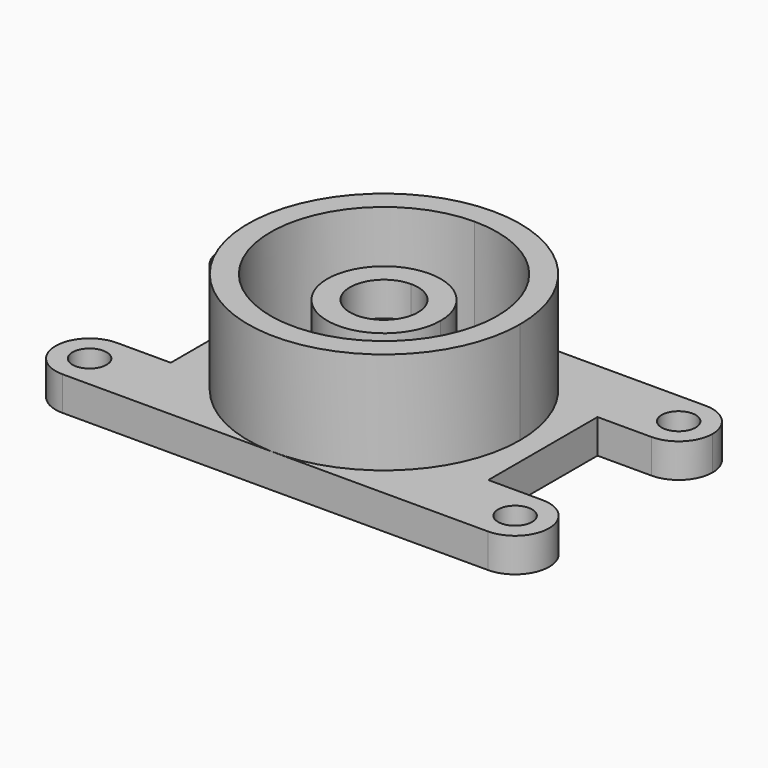
from build123d import *

# Parameters (mm, degrees)
F0_R     = 9.525
F1_DEPTH = 19.05
F2_DEPTH = 57.15
F3_DEPTH = 44.45
F4_DEPTH = 25.4


with BuildPart() as f1:
    # F0 (on Top) → F1 (new body)
    with BuildSketch(Plane.XY):
        with BuildLine():
            Line((-88.899997, 38.29073), (-88.899997, 76.2))
            Line((-88.899997, 76.2), (-119.125959, 76.2))
            ThreePointArc((-119.125959, 76.2), (-132.562584, 70.654059), (-138.17572, 57.245365))
            ThreePointArc((-138.17572, 57.245365), (-132.562584, 43.836671), (-119.125959, 38.29073))
            Line((-119.125959, 38.29073), (-88.899997, 38.29073))
        make_face()
        with Locations((-119.125959, 57.34073)):
            Circle(F0_R, mode=Mode.SUBTRACT)
        with BuildLine():
            Line((-88.899997, -76.20642), (-88.899997, -38.10642))
            Line((-88.899997, -38.10642), (-119.125959, -38.10642))
            ThreePointArc((-119.125959, -38.10642), (-138.175959, -57.15642), (-119.125959, -76.20642))
            Line((-119.125959, -76.20642), (-88.899997, -76.20642))
        make_face()
        with Locations((-119.125959, -57.15642)):
            Circle(F0_R, mode=Mode.SUBTRACT)
        with BuildLine():
            Line((119.125959, 76.2), (88.899997, 76.2))
            Line((88.899997, 76.2), (88.899997, 38.29073))
            Line((88.899997, 38.29073), (119.125959, 38.29073))
            ThreePointArc((119.125959, 38.29073), (132.562584, 43.836671), (138.17572, 57.245365))
            ThreePointArc((138.17572, 57.245365), (132.562584, 70.654059), (119.125959, 76.2))
        make_face()
        with Locations((119.125959, 57.34073)):
            Circle(F0_R, mode=Mode.SUBTRACT)
        with BuildLine():
            Line((119.125959, -38.10642), (88.899997, -38.10642))
            Line((88.899997, -38.10642), (88.899997, -76.20642))
            Line((88.899997, -76.20642), (119.125959, -76.20642))
            ThreePointArc((119.125959, -76.20642), (138.175959, -57.15642), (119.125959, -38.10642))
        make_face()
        with Locations((119.125959, -57.15642)):
            Circle(F0_R, mode=Mode.SUBTRACT)
        Polygon((76.199997, 76.2), (0, 76.2), (-88.899997, 76.2), (-88.899997, 38.29073), (-88.899997, -38.10642), (-88.899997, -76.20642), (88.899997, -76.20642), (88.899997, -38.10642), (88.899997, 38.29073), (88.899997, 76.2), align=None)
        with BuildLine():
            ThreePointArc((76.2, 0), (-53.881537, -53.881537), (0, 76.2))
            ThreePointArc((0, 76.2), (53.881537, 53.881537), (76.2, 0))
        make_face(mode=Mode.SUBTRACT)
        with BuildLine():
            ThreePointArc((76.2, 0), (53.881537, 53.881537), (0, 76.2))
            ThreePointArc((0, 76.2), (-53.881537, -53.881537), (76.2, 0))
        make_face()
        with BuildLine():
            ThreePointArc((63.5, 0), (-44.901281, -44.901281), (0, 63.5))
            ThreePointArc((0, 63.5), (44.901281, 44.901281), (63.5, 0))
        make_face(mode=Mode.SUBTRACT)
        with BuildLine():
            ThreePointArc((63.5, 0), (44.901281, 44.901281), (0, 63.5))
            ThreePointArc((0, 63.5), (-44.901281, -44.901281), (63.5, 0))
        make_face()
        with BuildLine():
            ThreePointArc((31.75, 0), (-22.45064, -22.45064), (0, 31.75))
            ThreePointArc((0, 31.75), (22.45064, 22.45064), (31.75, 0))
        make_face(mode=Mode.SUBTRACT)
        with BuildLine():
            ThreePointArc((31.75, 0), (22.45064, 22.45064), (0, 31.75))
            ThreePointArc((0, 31.75), (-22.45064, -22.45064), (31.75, 0))
        make_face()
        with BuildLine():
            ThreePointArc((0, 19.05), (13.470384, 13.470384), (19.05, 0))
            ThreePointArc((19.05, 0), (-13.470384, -13.470384), (0, 19.05))
        make_face(mode=Mode.SUBTRACT)
        with BuildLine():
            ThreePointArc((0, 19.05), (-13.470384, -13.470384), (19.05, 0))
            ThreePointArc((19.05, 0), (13.470384, 13.470384), (0, 19.05))
        make_face()
        with BuildLine():
            ThreePointArc((9.525, 0), (-6.735192, -6.735192), (0, 9.525))
            ThreePointArc((0, 9.525), (6.735192, 6.735192), (9.525, 0))
        make_face(mode=Mode.SUBTRACT)
        with BuildLine():
            ThreePointArc((9.525, 0), (6.735192, 6.735192), (0, 9.525))
            ThreePointArc((0, 9.525), (-6.735192, -6.735192), (9.525, 0))
        make_face()
    extrude(amount=-F1_DEPTH)


with BuildPart() as f2:
    # F0 (on Top) → F2 (new body)
    with BuildSketch(Plane.XY):
        with BuildLine():
            ThreePointArc((76.2, 0), (53.881537, 53.881537), (0, 76.2))
            ThreePointArc((0, 76.2), (-53.881537, -53.881537), (76.2, 0))
        make_face()
        with BuildLine():
            ThreePointArc((63.5, 0), (-44.901281, -44.901281), (0, 63.5))
            ThreePointArc((0, 63.5), (44.901281, 44.901281), (63.5, 0))
        make_face(mode=Mode.SUBTRACT)
    extrude(amount=F2_DEPTH)


with BuildPart() as f3:
    # F0 (on Top) → F3 (new body)
    with BuildSketch(Plane.XY):
        with BuildLine():
            ThreePointArc((31.75, 0), (22.45064, 22.45064), (0, 31.75))
            ThreePointArc((0, 31.75), (-22.45064, -22.45064), (31.75, 0))
        make_face()
        with BuildLine():
            ThreePointArc((0, 19.05), (13.470384, 13.470384), (19.05, 0))
            ThreePointArc((19.05, 0), (-13.470384, -13.470384), (0, 19.05))
        make_face(mode=Mode.SUBTRACT)
    extrude(amount=F3_DEPTH)


with BuildPart() as f4:
    # F0 (on Top) → F4 (new body)
    with BuildSketch(Plane.XY):
        with BuildLine():
            ThreePointArc((0, 19.05), (-13.470384, -13.470384), (19.05, 0))
            ThreePointArc((19.05, 0), (13.470384, 13.470384), (0, 19.05))
        make_face()
        with BuildLine():
            ThreePointArc((9.525, 0), (-6.735192, -6.735192), (0, 9.525))
            ThreePointArc((0, 9.525), (6.735192, 6.735192), (9.525, 0))
        make_face(mode=Mode.SUBTRACT)
    extrude(amount=F4_DEPTH)


solid = Compound([f1.part, f2.part, f3.part, f4.part])
